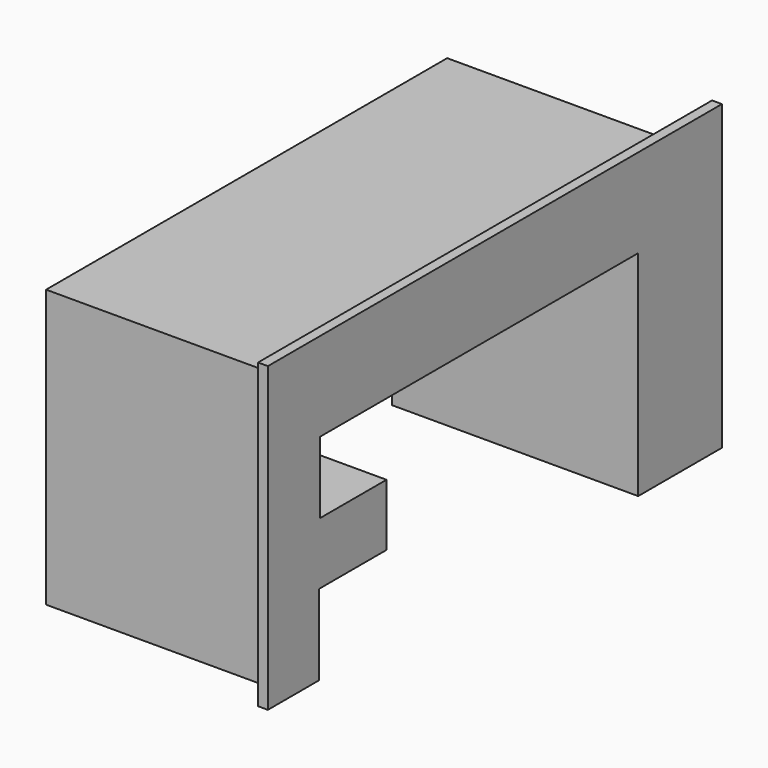
from build123d import *

# Parameters (mm, degrees)
F1_DEPTH = 25
F3_DEPTH = 24


with BuildPart() as f1:
    # F0 (on Right) → F1 (new body)
    with BuildSketch(Plane.YZ):
        Polygon((0, 30.708406), (0, 0), (6.495294, 0), (6.495294, 8.168684), (15.046757, 8.168684), (15.046757, 14.439756), (6.637818, 14.439756), (6.637818, 21.7085), (46.972219, 21.7085), (46.972219, 0), (57.595324, 0), (57.595324, 30.708406), align=None)
    extrude(amount=F1_DEPTH)

    # F2 (on face) → F3 (cut)
    with BuildSketch(Plane(origin=(0, 0, 0), x_dir=(0, -1, 0), z_dir=(-1, 0, 0))):
        Polygon((-53.99179, -2.160003), (-53.99179, 28.144645), (-3.114748, 28.144645), (-3.114748, 0), (2.5671, 0), (2.5671, 33.474556), (-65.965217, 33.474556), (-65.965217, -2.160003), align=None)
    extrude(amount=-F3_DEPTH, mode=Mode.SUBTRACT)


solid = f1.part
